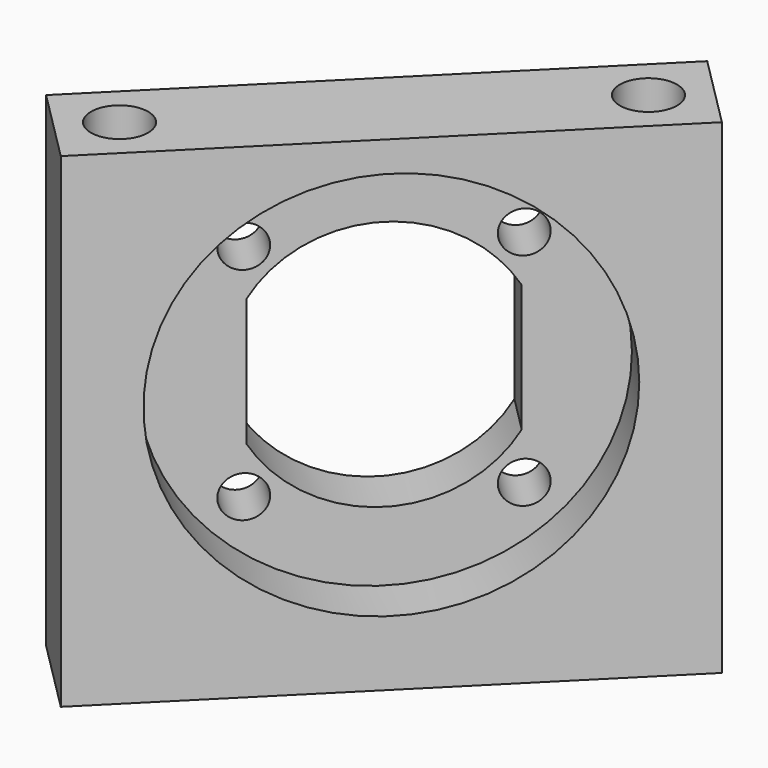
from build123d import *

# Parameters (mm, degrees)
SKETCH077_W             = 30
SKETCH077_H             = 6
PAD034_DEPTH            = 28
SKETCH078_R             = 11.25
POCKET039_DEPTH         = 3
SKETCH079_R             = 1.2
POCKET040_DEPTH         = 3
SKETCH080_R             = 1.65
POCKET041_DEPTH         = 7
SKETCH081_R             = 1.65
POCKET042_DEPTH         = 8
BODY024_PLACEMENT_ANGLE = 225


with BuildPart() as part:
    # Sketch077 → Pad034 (new body)
    with BuildSketch(Plane.XY):
        Rectangle(SKETCH077_W, SKETCH077_H)
    extrude(amount=PAD034_DEPTH)

    # Sketch078 (on Face4 of Pad034) → Pocket039 (cut)
    with BuildSketch(Plane(origin=(0, 3, 0), x_dir=(-1, 0, 0), z_dir=(0, 1, 0))):
        with Locations((0, 15)):
            Circle(SKETCH078_R)
    extrude(amount=-POCKET039_DEPTH, mode=Mode.SUBTRACT)

    # Sketch079 (on Face8 of Pocket039) → Pocket040 (cut)
    with BuildSketch(Plane(origin=(0, 0, 0), x_dir=(-1, 0, 0), z_dir=(0, 1, 0))):
        with Locations((6.363961, 8.636039)):
            Circle(SKETCH079_R)
        with Locations((6.363961, 21.363961)):
            Circle(SKETCH079_R)
        with Locations((-6.363961, 21.363961)):
            Circle(SKETCH079_R)
        with Locations((-6.363961, 8.636039)):
            Circle(SKETCH079_R)
        with BuildLine():
            Line((-6.25, 18.674235), (-6.25, 11.325765))
            ThreePointArc((-6.25, 11.325765), (0, 7.75), (6.25, 11.325765))
            Line((6.25, 18.674235), (6.25, 11.325765))
            ThreePointArc((6.25, 18.674235), (0, 22.25), (-6.25, 18.674235))
        make_face()
    extrude(amount=-POCKET040_DEPTH, mode=Mode.SUBTRACT)

    # Sketch080 (on Face5 of Pocket040) → Pocket041 (cut)
    with BuildSketch(Plane.XY.offset(28)):
        with Locations((-12, 0)):
            Circle(SKETCH080_R)
        with Locations((12, 0)):
            Circle(SKETCH080_R)
    extrude(amount=-POCKET041_DEPTH, mode=Mode.SUBTRACT)

    # Sketch081 (on Face4 of Pocket041) → Pocket042 (cut)
    with BuildSketch(Plane(origin=(0, 0, 0), x_dir=(1, 0, 0), z_dir=(0, 0, -1))):
        with Locations((-12, 0)):
            Circle(SKETCH081_R)
        with Locations((12, 0)):
            Circle(SKETCH081_R)
    extrude(amount=-POCKET042_DEPTH, mode=Mode.SUBTRACT)


with BuildPart() as part_1:
    # Body024 placement: moved
    add(part.part.moved(Location((-58.5, 58.5, 2))).rotate(Axis((-58.5, 58.5, 2), (0, 0, 1)), BODY024_PLACEMENT_ANGLE))


solid = part_1.part
